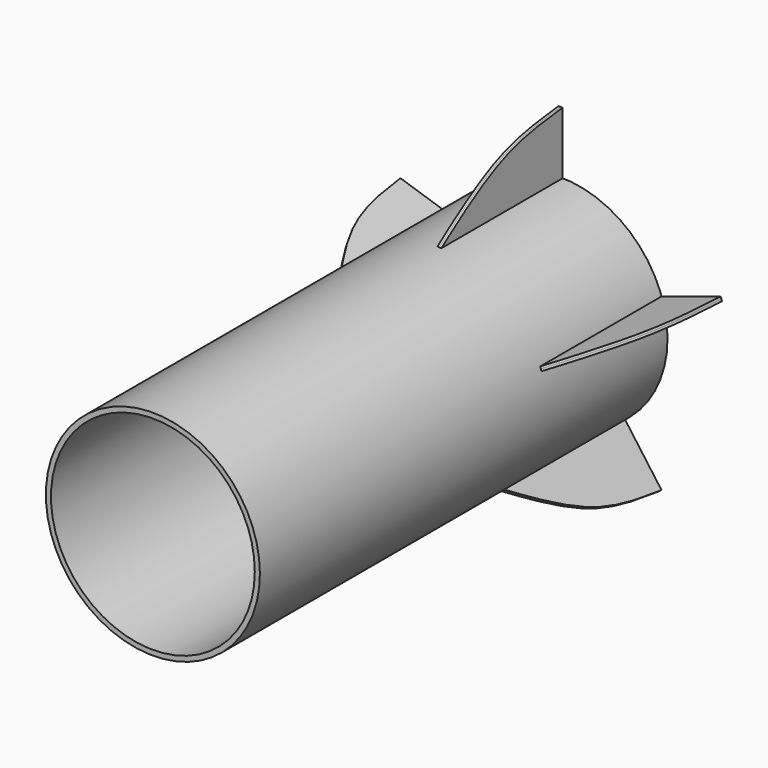
from build123d import *

# Parameters (mm, degrees)
F0_R     = 21
F0_R_2   = 20
F1_DEPTH = 100
F3_DEPTH = 0.4
F4_COUNT = 5


with BuildPart() as f1:
    # F0 (on Front) → F1 (new body)
    with BuildSketch(Plane.XZ):
        Circle(F0_R)
        Circle(F0_R_2, mode=Mode.SUBTRACT)
    extrude(amount=F1_DEPTH)


with BuildPart() as f3:
    # F2 (on Right) → F3 (new body, symmetric)
    with BuildSketch(Plane.YZ):
        with BuildLine():
            add(Edge.make_bspline(
                [(0, 33.1701412797), (-4.793054476, 32.6526938299), (-15.0491360823, 31.5454701799), (-25.1906505129, 24.2410519618), (-30.5926520377, 20.3502643853)],
                knots=[0, 0, 0, 0, 0.4673377865, 1, 1, 1, 1], degree=3))
            Line((-30.5926520377, 20.3502643853), (0, 20.3502643853))
            Line((0, 20.3502643853), (0, 33.1701412797))
        make_face()
    extrude(amount=F3_DEPTH, both=True)


with BuildPart() as f4_1:
    # F4: instance of F3
    add(f3.part.rotate(Axis((0, 0, 0), (0, 1, 0)), 1 * 360 / F4_COUNT))


with BuildPart() as f4_2:
    # F4: instance of F3
    add(f3.part.rotate(Axis((0, 0, 0), (0, 1, 0)), 2 * 360 / F4_COUNT))


with BuildPart() as f4_3:
    # F4: instance of F3
    add(f3.part.rotate(Axis((0, 0, 0), (0, 1, 0)), 3 * 360 / F4_COUNT))


with BuildPart() as f4_4:
    # F4: instance of F3
    add(f3.part.rotate(Axis((0, 0, 0), (0, 1, 0)), 4 * 360 / F4_COUNT))


solid = Compound([f1.part, f3.part, f4_1.part, f4_2.part, f4_3.part, f4_4.part])
